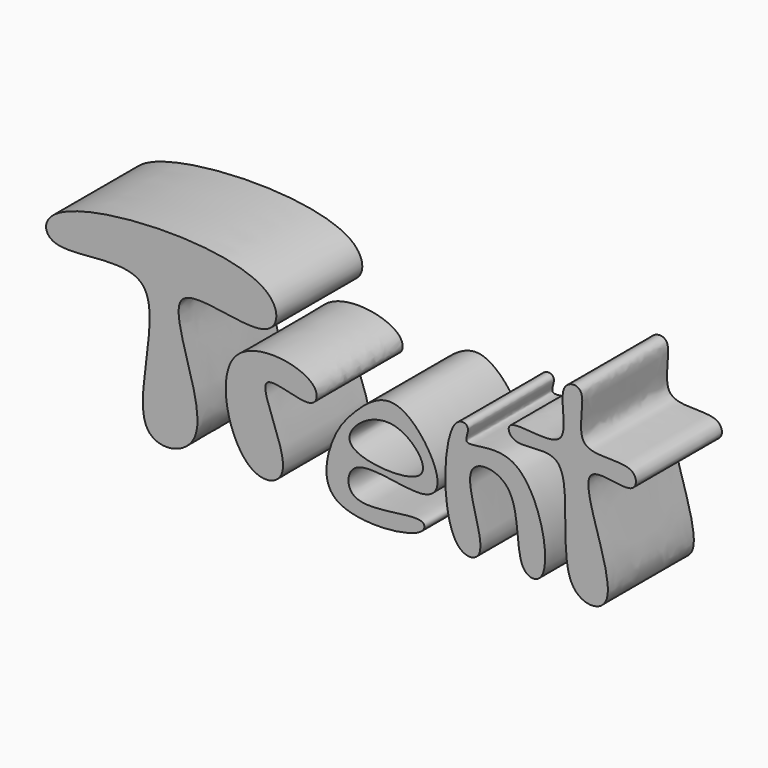
from build123d import *

# Parameters (mm, degrees)
F1_DEPTH = 25.4
F2_DEPTH = 25.4
F3_DEPTH = 25.4
F4_DEPTH = 25.4
F5_DEPTH = 25.4


with BuildPart() as f1:
    # F0 (on Front) → F1 (new body)
    with BuildSketch(Plane.XZ):
        with BuildLine():
            add(Edge.make_bspline(
                [(16.8965216726, 12.0263481513), (16.4996944983, 16.153078144), (7.6240188434, 28.9389877134), (-3.2858926798, 19.563443667), (-8.4398574838, 12.8777120567), (-11.9231828847, -4.2999450153), (14.1411002277, -2.093632211), (14.0194553526, 4.2584327791), (-5.0058898254, -1.9581861768), (-4.3082528874, 12.0297820916), (13.5009473419, 5.7049071555), (17.1340754179, 9.5559524001), (16.8965216726, 12.0263481513)],
                knots=[0, 0, 0, 0, 0.1221321913, 0.2232118976, 0.3186538746, 0.4248159906, 0.5628886704, 0.6074072909, 0.7295199308, 0.8047701386, 0.9268876697, 1, 1, 1, 1], degree=3))
        make_face()
        with BuildLine():
            add(Edge.make_bspline(
                [(-2.5841742754, 11.8275657296), (0.7640247912, 9.6361102193), (19.3296658206, 8.783797632), (7.167171462, 23.1872553875), (-3.8551241967, 17.1881939188), (-4.3546307319, 12.9863607954), (-2.5841742754, 11.8275657296)],
                knots=[0, 0, 0, 0, 0.3179331753, 0.5688348682, 0.8318836987, 1, 1, 1, 1], degree=3))
        make_face(mode=Mode.SUBTRACT)
    extrude(amount=F1_DEPTH)


with BuildPart() as f2:
    # F0 (on Front) → F2 (new body)
    with BuildSketch(Plane.XZ):
        with BuildLine():
            add(Edge.make_bspline(
                [(-51.4846965671, 0), (-55.4881718559, 5.7520084157), (-41.8916729321, 39.5655654302), (-75.1520086748, 27.8528547679), (-77.7208401977, 43.126380119), (-19.4469057458, 45.7270932787), (-20.9229872642, 24.9304934125), (-54.8258977117, 39.0862513231), (-31.5392868133, -0.2987656895), (-49.0054767997, -3.5620284721), (-51.4846965671, 0)],
                knots=[0, 0, 0, 0, 0.1540450356, 0.2834443999, 0.3501686959, 0.5500996294, 0.6307504671, 0.7566997751, 0.904605007, 1, 1, 1, 1], degree=3))
        make_face()
    extrude(amount=F2_DEPTH)


with BuildPart() as f3:
    # F0 (on Front) → F3 (new body)
    with BuildSketch(Plane.XZ):
        with BuildLine():
            add(Edge.make_bspline(
                [(-27.0344354212, 0), (-32.2995432854, 3.7271287599), (-38.6032218842, 28.6369671075), (-10.4196870637, 24.7849287509), (-11.9447055555, 15.5026295576), (-30.1621787834, 24.6208993657), (-14.6122315215, 0.3637565989), (-23.9641946531, -2.1733994748), (-27.0344354212, 0)],
                knots=[0, 0, 0, 0, 0.2239930936, 0.4260079526, 0.520723272, 0.6728241224, 0.8693829746, 1, 1, 1, 1], degree=3))
        make_face()
    extrude(amount=F3_DEPTH)


with BuildPart() as f4:
    # F0 (on Front) → F4 (new body)
    with BuildSketch(Plane.XZ):
        with BuildLine():
            add(Edge.make_bspline(
                [(21.6673035175, 0), (17.7236036191, 4.8999334172), (18.1004958663, 27.1940742325), (25.237342232, 25.7210880886), (21.6490920072, 19.751222441), (38.8112445486, 27.6159258913), (45.2343620338, -2.0369564498), (34.4540984618, -1.2963452376), (37.6594275166, 18.0505664411), (19.6962341261, 19.7386294069), (30.8856790893, -1.6346730136), (23.455100287, -2.2212859397), (21.6673035175, 0)],
                knots=[0, 0, 0, 0, 0.1577404694, 0.2102133217, 0.2645881578, 0.3687299034, 0.5176407475, 0.5819066329, 0.7088812983, 0.7999723368, 0.9284915412, 1, 1, 1, 1], degree=3))
        make_face()
    extrude(amount=F4_DEPTH)


with BuildPart() as f5:
    # F0 (on Front) → F5 (new body)
    with BuildSketch(Plane.XZ):
        with BuildLine():
            add(Edge.make_bspline(
                [(49.0993075073, 0), (45.2732132748, 5.5195508275), (51.3038880028, 30.6755638037), (34.8419882021, 23.8460403306), (32.2251378763, 31.3641200287), (50.5691262085, 25.5279746892), (44.0743405979, 41.9251102137), (53.4532400651, 43.1342865451), (47.2805421831, 26.7792719997), (64.1640736028, 31.3820836904), (64.1657474414, 22.4802818151), (45.2431612781, 30.8865635239), (63.6524805088, -3.1518580657), (51.2284435331, -3.0715068158), (49.0993075073, 0)],
                knots=[0, 0, 0, 0, 0.1316717429, 0.215853806, 0.2610921185, 0.3506133543, 0.4378851739, 0.4893438818, 0.5749506484, 0.6635871455, 0.713365952, 0.7955736198, 0.9267276145, 1, 1, 1, 1], degree=3))
        make_face()
    extrude(amount=F5_DEPTH)


solid = Compound([f1.part, f2.part, f3.part, f4.part, f5.part])
